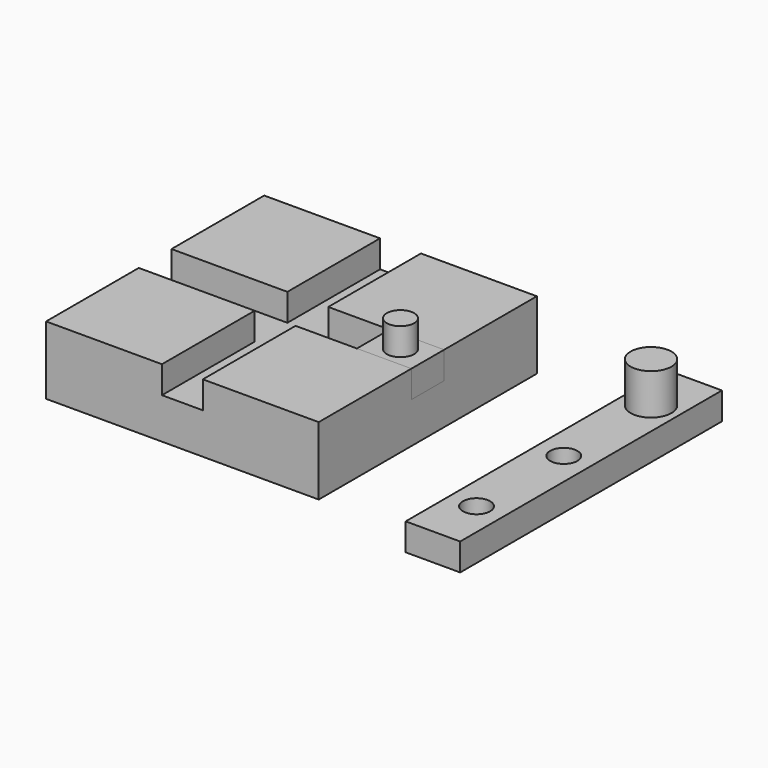
from build123d import *

# Parameters (mm, degrees)
F0_W      = 100
F0_H      = 100
F1_DEPTH  = 25
F2_W      = 15
F2_H      = 10
F3_DEPTH  = 100
F4_W      = 15
F4_H      = 10
F5_DEPTH  = 100
F6_DEPTH  = 20
F7_R      = 5
F8_DEPTH  = 10
F9_W      = 20
F9_H      = 120
F9_R      = 5
F10_DEPTH = 10
F11_R     = 7.5
F12_DEPTH = 15


with BuildPart() as f1:
    # F0 (on Top) → F1 (new body)
    with BuildSketch(Plane.XY):
        Rectangle(F0_W, F0_H)
    extrude(amount=F1_DEPTH)

    # F2 (on face) → F3 (cut, through all)
    with BuildSketch(Plane.YZ.offset(50)):
        with Locations((0, 20)):
            Rectangle(F2_W, F2_H)
    extrude(amount=-F3_DEPTH, mode=Mode.SUBTRACT)

    # F4 (on face) → F5 (cut, through all)
    with BuildSketch(Plane.XZ.offset(50)):
        with Locations((0, 20)):
            Rectangle(F4_W, F4_H)
    extrude(amount=-F5_DEPTH, mode=Mode.SUBTRACT)


with BuildPart() as f6:
    # F2 (on face) → F6 (new body)
    with BuildSketch(Plane.YZ.offset(50)):
        with Locations((0, 20)):
            Rectangle(F2_W, F2_H)
    extrude(amount=-F6_DEPTH)

    # F7 (on face) → F8 (join)
    with BuildSketch(Plane.XY.offset(25)):
        with Locations((40, 0)):
            Circle(F7_R)
    extrude(amount=F8_DEPTH)


with BuildPart() as f10:
    # F9 (on Top) → F10 (new body)
    with BuildSketch(Plane.XY):
        with Locations((99.890538, 0)):
            Rectangle(F9_W, F9_H)
        with Locations((99.890538, -40)):
            Circle(F9_R, mode=Mode.SUBTRACT)
        with Locations((99.890538, 0)):
            Circle(F9_R, mode=Mode.SUBTRACT)
    extrude(amount=F10_DEPTH)

    # F11 (on face) → F12 (join)
    with BuildSketch(Plane.XY.offset(10)):
        with Locations((99.890538, 40)):
            Circle(F11_R)
    extrude(amount=F12_DEPTH)


solid = Compound([f1.part, f6.part, f10.part])
